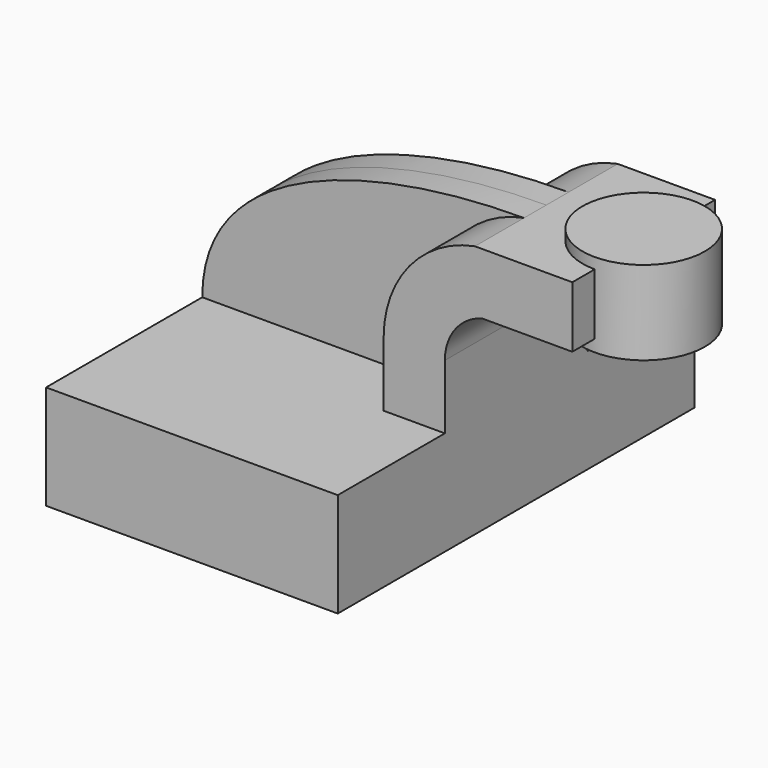
from build123d import *

# Parameters (mm, degrees)
F1_DEPTH = 63.5
F0_W     = 17.417691648
F0_H     = 17.4204483628
F2_DEPTH = 25.4
F3_DEPTH = 7.9375


with BuildPart() as f1:
    # F0 (on Front) → F1 (new body, symmetric)
    with BuildSketch(Plane.XZ):
        Polygon((-24.308366701, 9.6553536132), (-24.308366701, -20.018171519), (58.7199889123, -20.018171519), (58.7199889123, 9.6553536132), (41.2995405495, 9.6553536132), align=None)
    extrude(amount=F1_DEPTH, both=True)

    # F0 (on Front) → F2 (join, symmetric)
    with BuildSketch(Plane.XZ):
        with BuildLine():
            Line((41.2995405495, 9.6553536132), (58.7199889123, 9.6553536132))
            Line((58.7199889123, 9.6553536132), (58.7199889123, 27.9359869646))
            ThreePointArc((58.7199889123, 27.9359869646), (61.6462339418, 36.6784025907), (69.2457072501, 41.8976694345))
            Line((69.2457072501, 41.8976694345), (77.5875747204, 41.8976694345))
            Line((77.5875747204, 41.8976694345), (77.5875747204, 59.3181177974))
            Line((77.5875747204, 59.3181177974), (67.2831763104, 59.3181177974))
            ThreePointArc((67.2831763104, 59.3181177974), (48.6385264432, 48.3074588245), (41.2995405495, 27.9359869646))
            Line((41.2995405495, 27.9359869646), (41.2995405495, 9.6553536132))
        make_face()
        with Locations((86.2964205444, 50.607893616)):
            Rectangle(F0_W, F0_H)
    extrude(amount=F2_DEPTH, both=True)

    # F0 (on Front) → F3 (join, symmetric)
    with BuildSketch(Plane.XZ):
        with BuildLine():
            add(Edge.make_bspline(
                [(-24.308366701, 9.6553536132), (-24.308366701, 46.6815978289), (26.0343328118, 59.3484714627), (67.2831763104, 59.3181177974)],
                knots=[0, 0, 0, 0, 104.1892551928, 104.1892551928, 104.1892551928, 104.1892551928], degree=3))
            Line((-24.308366701, 9.6553536132), (41.2995405495, 9.6553536132))
            Line((41.2995405495, 9.6553536132), (41.2995405495, 27.9359869646))
            ThreePointArc((41.2995405495, 27.9359869646), (48.6385264432, 48.3074588245), (67.2831763104, 59.3181177974))
        make_face()
    extrude(amount=F3_DEPTH, both=True)

    # F0 (on Front) → F4 (revolve)
    with BuildSketch(Plane.XZ):
        Polygon((95.0052663684, 62.3890832067), (95.0052663684, 59.3181177974), (95.0052663684, 41.8976694345), (95.0052663684, 38.4824350476), (112.4229580164, 38.4824350476), (112.4229580164, 62.3890832067), align=None)
    revolve(axis=Axis((95.0052663684, 0, 50.4357591271), (0, 0, 1)))


solid = f1.part
